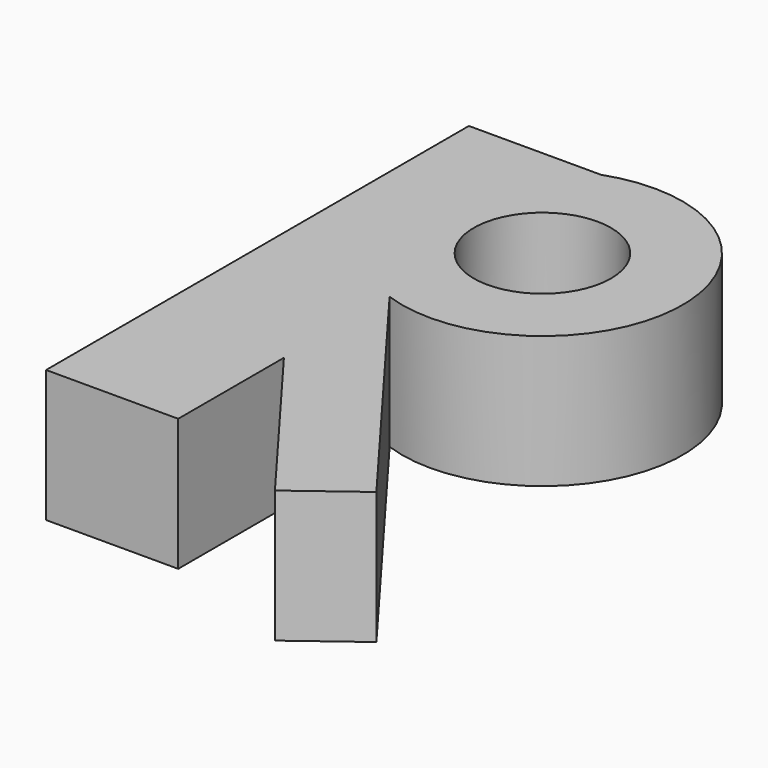
from build123d import *

# Parameters (mm, degrees)
F0_R     = 13.187455
F1_DEPTH = 25.4


with BuildPart() as f1:
    # F0 (on Top) → F1 (new body)
    with BuildSketch(Plane.XY):
        with BuildLine():
            Line((-68.548339, -52.761291), (-43.148339, -52.761291))
            Line((-43.148339, -52.761291), (-43.148339, -27.361291))
            Line((-43.148339, -27.361291), (-43.148339, -1.961291))
            ThreePointArc((-43.148339, -1.961291), (-7.124563, 23.438709), (-43.148339, 48.838709))
            Line((-43.148339, 48.838709), (-68.548339, 48.838709))
            Line((-68.548339, 48.838709), (-68.548339, -52.761291))
        make_face()
        with Locations((-34.091093, 23.438709)):
            Circle(F0_R, mode=Mode.SUBTRACT)
        Polygon((-43.148339, -1.961291), (-43.148339, -27.361291), (-17.240339, -61.905291), (-5.048339, -52.761291), align=None)
    extrude(amount=F1_DEPTH)


solid = f1.part
